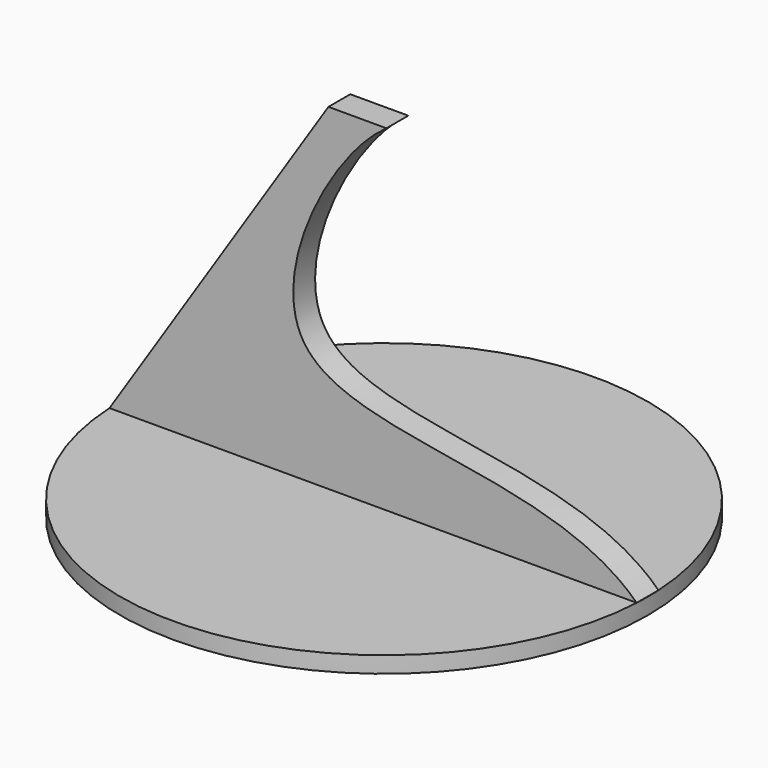
from build123d import *

# Parameters (mm, degrees)
F1_DEPTH = 5
F2_R     = 48.3377048253
F3_DEPTH = 3


with BuildPart() as f1:
    # F0 (on Front) → F1 (new body)
    with BuildSketch(Plane.XZ):
        with BuildLine():
            add(Edge.make_bspline(
                [(10.6249889359, 40.5493676662), (0.6478541731, 33.6545978676), (-25.8610816931, -16.3676065654), (40.6259382264, -5.5649091014), (56.4504414797, -21.0603047162)],
                knots=[0, 0, 0, 0, 0.4466337202, 1, 1, 1, 1], degree=3))
            Line((10.6249889359, 40.5493676662), (0, 40.5493676662))
            Line((0, 40.5493676662), (-40.0955829393, -21.0603047162))
            Line((-40.0955829393, -21.0603047162), (56.4504414797, -21.0603047162))
        make_face()
    extrude(amount=F1_DEPTH)

    # F2 (on face) → F3 (join)
    with BuildSketch(Plane(origin=(0, 0, -21.0603047162), x_dir=(1, 0, 0), z_dir=(0, 0, -1))):
        with Locations((8.1774292702, 2.5)):
            Circle(F2_R)
    extrude(amount=F3_DEPTH)


solid = f1.part
